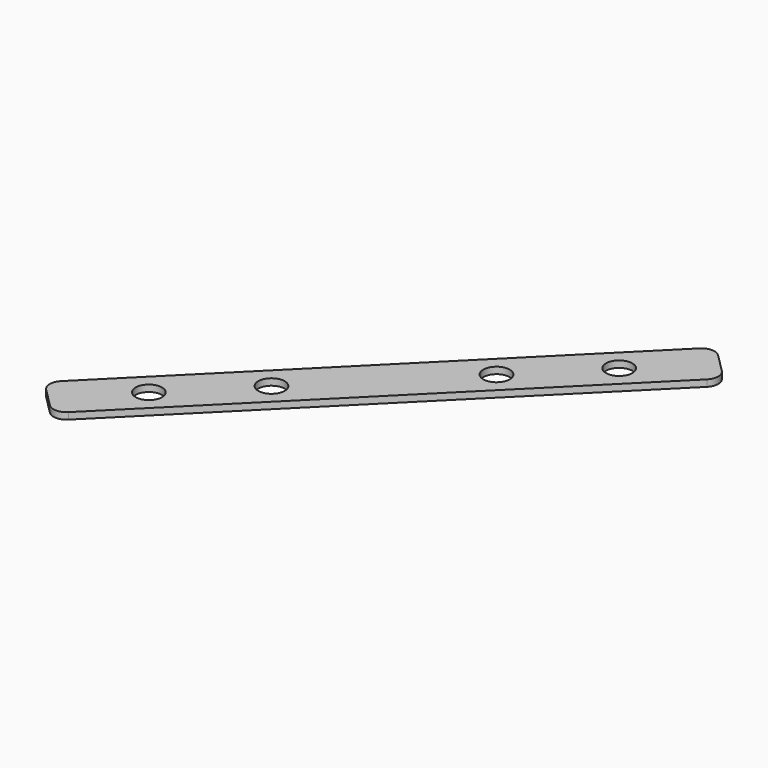
from build123d import *

# Parameters (mm, degrees)
F0_R     = 6.35
F1_DEPTH = 3.175


with BuildPart() as f1:
    # F0 (on Top) → F1 (new body)
    with BuildSketch(Plane.XY):
        with BuildLine():
            Line((76.332177, 94.292689), (-8.980256, 8.980256))
            Line((-8.980256, 8.980256), (-94.292689, -76.332177))
            ThreePointArc((-94.292689, -76.332177), (-96.152561, -80.822305), (-94.292689, -85.312433))
            Line((-94.292689, -85.312433), (-89.802561, -89.802561))
            Line((-89.802561, -89.802561), (-85.312433, -94.292689))
            ThreePointArc((-85.312433, -94.292689), (-80.822305, -96.152561), (-76.332177, -94.292689))
            Line((-76.332177, -94.292689), (8.980256, -8.980256))
            Line((8.980256, -8.980256), (94.292689, 76.332177))
            ThreePointArc((94.292689, 76.332177), (96.152561, 80.822305), (94.292689, 85.312433))
            Line((94.292689, 85.312433), (89.802561, 89.802561))
            Line((89.802561, 89.802561), (85.312433, 94.292689))
            ThreePointArc((85.312433, 94.292689), (80.822305, 96.152561), (76.332177, 94.292689))
        make_face()
        with Locations((-62.861793, -62.861793)):
            Circle(F0_R, mode=Mode.SUBTRACT)
        with Locations((-30.083858, -30.083858)):
            Circle(F0_R, mode=Mode.SUBTRACT)
        with Locations((30.083858, 30.083858)):
            Circle(F0_R, mode=Mode.SUBTRACT)
        with Locations((62.861793, 62.861793)):
            Circle(F0_R, mode=Mode.SUBTRACT)
    extrude(amount=F1_DEPTH)


solid = f1.part
